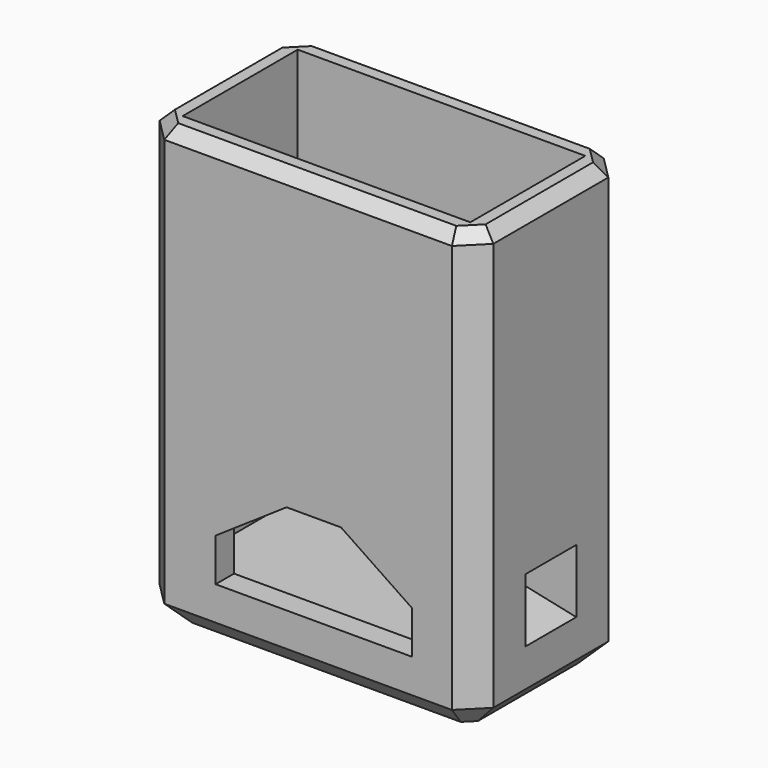
from build123d import *

# Parameters (mm, degrees)
F0_W      = 29
F0_H      = 16.5
F1_DEPTH  = 38.5
F2_T      = -2
F3_DEPTH  = 2.25
F4_SIZE   = 2
F5_SIZE   = 2
F6_SIZE   = 1
F8_DEPTH  = 16.501
F9_W      = 7.54
F9_H      = 7.25
F9_R      = 1.1
F10_DEPTH = 6.35
F11_W     = 5.538
F11_H     = 5.53
F13_W     = 5.538
F13_H     = 4.583


with BuildPart() as f1:
    # F0 (on Top) → F1 (new body)
    with BuildSketch(Plane.XY):
        with Locations((14.5, 8.25)):
            Rectangle(F0_W, F0_H)
    extrude(amount=F1_DEPTH)

    # F2
    f2_openings = [f1.faces().sort_by_distance(p)[0] for p in [
        (14.5, 8.25, 38.5),
    ]]
    offset(amount=F2_T, openings=f2_openings)

    # F3 (add): a face of the model
    f3_faces = [f1.faces().sort_by_distance(p)[0] for p in [
        (14.5, 8.25, 2),
    ]]
    extrude(f3_faces, amount=F3_DEPTH)

    # F4
    f4_edges = [f1.edges().sort_by_distance(p)[0] for p in [
        (29, 16.5, 19.25),
        (29, 0, 19.25),
        (0, 16.5, 19.25),
        (0, 0, 19.25),
    ]]
    chamfer(f4_edges, length=F4_SIZE)

    # F5
    f5_edges = [f1.edges().sort_by_distance(p)[0] for p in [
        (0, 8.25, 0),
        (1, 15.5, 0),
        (1, 1, 0),
        (14.5, 16.5, 0),
        (14.5, 0, 0),
        (28, 15.5, 0),
        (28, 1, 0),
        (29, 8.25, 0),
    ]]
    chamfer(f5_edges, length=F5_SIZE)

    # F6
    f6_edges = [f1.edges().sort_by_distance(p)[0] for p in [
        (14.5, 0, 38.5),
        (1, 1, 38.5),
        (0, 8.25, 38.5),
        (1, 15.5, 38.5),
        (14.5, 16.5, 38.5),
        (28, 15.5, 38.5),
        (29, 8.25, 38.5),
        (28, 1, 38.5),
    ]]
    chamfer(f6_edges, length=F6_SIZE)

    # F7 (on face) → F8 (cut, through all)
    with BuildSketch(Plane.XZ):
        Polygon((17.365, 12.834), (12.635, 12.834), (6.464, 8.667), (6.464, 4.94), (23.536, 4.94), (23.536, 8.667), align=None)
    extrude(amount=-F8_DEPTH, mode=Mode.SUBTRACT)

    # F9 (on face) → F10 (join)
    with BuildSketch(Plane.YZ.offset(29)):
        with Locations((8.25, 7.875)):
            Rectangle(F9_W, F9_H)
        with Locations((8.25, 9)):
            Circle(F9_R, mode=Mode.SUBTRACT)
    extrude(amount=-F10_DEPTH)

    # F11 (on face) → F14 section 0
    with BuildSketch(Plane.YZ.offset(29)):
        with Locations((8.25, 8.037)):
            Rectangle(F11_W, F11_H)
    # F13 (on offset) → F14 section 1
    with BuildSketch(Plane.YZ.offset(24.55)):
        with Locations((8.25, 8.5135)):
            Rectangle(F13_W, F13_H)
    loft(mode=Mode.SUBTRACT)


solid = f1.part
